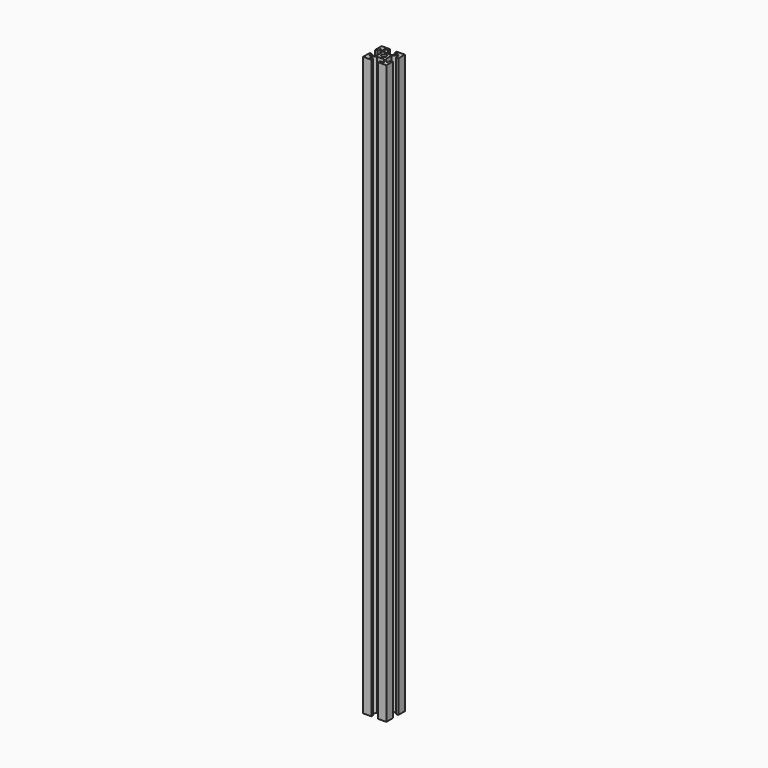
from build123d import *

# Parameters (mm, degrees)
PAD_DEPTH    = 500
SKETCH001_R  = 2
POCKET_DEPTH = 500.001


with BuildPart() as change_me_for_height:
    # Sketch → Pad (new body)
    with BuildSketch(Plane.XY):
        Polygon((-10, 3), (-10, 10), (-3, 10), (-3, 8), (-6, 8), (-6, 7), (-3, 4), (3, 4), (6, 7), (6, 8), (3, 8), (3, 10), (10, 10), (10, 3), (8, 3), (8, 6), (7, 6), (4, 3), (4, 0), (-4, 0), (-4, 3), (-7, 6), (-8, 6), (-8, 3), align=None)
    pad = extrude(amount=PAD_DEPTH)


with BuildPart() as mirrored:
    # Mirrored base: copy of Change_me_for_height
    add(change_me_for_height.part)

    # Mirrored: Pad across Sketch H_Axis
    add(pad.mirror(Plane.ZX))


with BuildPart() as pocket:
    # Fusion base: copy of Change_me_for_height
    add(change_me_for_height.part)

    # Fusion: union Mirrored
    add(mirrored.part)

    # Sketch001 → Pocket (cut, through all)
    with BuildSketch(Plane(origin=(0, 0, 0), x_dir=(1, 0, 0), z_dir=(0, 0, -1))):
        Circle(SKETCH001_R)
    extrude(amount=-POCKET_DEPTH, mode=Mode.SUBTRACT)


solid = pocket.part
